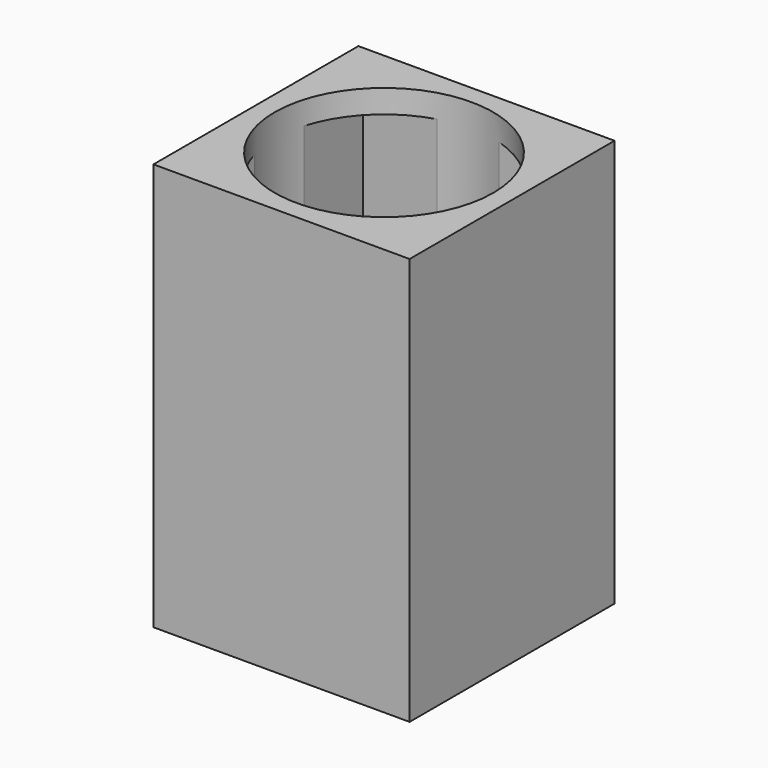
from build123d import *

# Parameters (mm, degrees)
F0_W     = 55.88
F0_H     = 55.88
F1_DEPTH = 88.9
F2_T     = -5.08
F3_R     = 23.8404105374
F4_DEPTH = 88.9


with BuildPart() as f1:
    # F0 (on Top) → F1 (new body)
    with BuildSketch(Plane.XY):
        Rectangle(F0_W, F0_H)
    extrude(amount=F1_DEPTH)

    # F2 (hollow: no face is removed)
    offset(amount=F2_T, mode=Mode.SUBTRACT)

    # F3 (on Top) → F4 (cut)
    with BuildSketch(Plane.XY):
        Circle(F3_R)
    extrude(amount=F4_DEPTH, mode=Mode.SUBTRACT)


solid = f1.part
